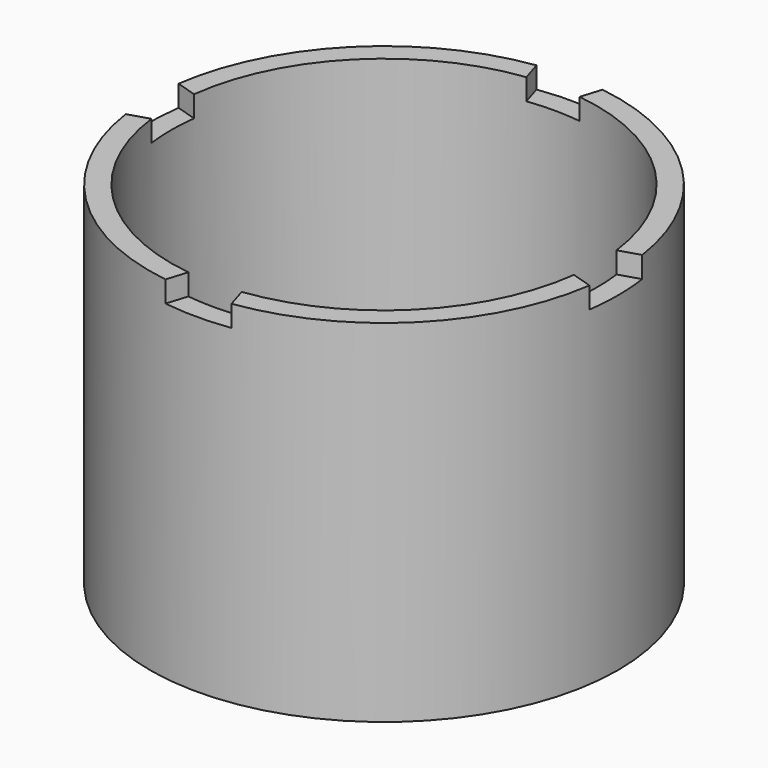
from build123d import *

# Parameters (mm, degrees)
F0_R     = 22
F0_R_2   = 20
F1_DEPTH = 33
F2_R     = 22
F2_R_2   = 2.5
F3_DEPTH = 2
F5_DEPTH = 2
F6_R     = 4
F6_R_2   = 2.5
F7_DEPTH = 1.5


with BuildPart() as f1:
    # F0 (on Top) → F1 (new body)
    with BuildSketch(Plane.XY):
        Circle(F0_R)
        Circle(F0_R_2, mode=Mode.SUBTRACT)
    extrude(amount=F1_DEPTH)

    # F2 (on Top) → F3 (join)
    with BuildSketch(Plane.XY):
        Circle(F2_R)
        Circle(F2_R_2, mode=Mode.SUBTRACT)
    extrude(amount=F3_DEPTH)

    # F4 (on face) → F5 (cut)
    with BuildSketch(Plane.XY.offset(33)):
        with BuildLine():
            Line((-3.106676, 21.803428), (-2.5, 19.843135))
            ThreePointArc((-2.5, 19.843135), (-1.252458, 19.960745), (0, 20))
            ThreePointArc((0, 20), (1.252458, 19.960745), (2.5, 19.843135))
            Line((2.5, 19.843135), (3.106676, 21.803428))
            ThreePointArc((3.106676, 21.803428), (0, 22.023645), (-3.106676, 21.803428))
        make_face()
        with BuildLine():
            Line((-21.803428, -3.106676), (-19.843135, -2.5))
            ThreePointArc((-19.843135, -2.5), (-19.960745, -1.252458), (-20, 0))
            ThreePointArc((-20, 0), (-19.960745, 1.252458), (-19.843135, 2.5))
            Line((-19.843135, 2.5), (-21.803428, 3.106676))
            ThreePointArc((-21.803428, 3.106676), (-22.023645, 0), (-21.803428, -3.106676))
        make_face()
        with BuildLine():
            Line((3.106676, -21.803428), (2.5, -19.843135))
            ThreePointArc((2.5, -19.843135), (1.252458, -19.960745), (0, -20))
            ThreePointArc((0, -20), (-1.252458, -19.960745), (-2.5, -19.843135))
            Line((-2.5, -19.843135), (-3.106676, -21.803428))
            ThreePointArc((-3.106676, -21.803428), (0, -22.023645), (3.106676, -21.803428))
        make_face()
        with BuildLine():
            Line((21.803428, 3.106676), (19.843135, 2.5))
            ThreePointArc((19.843135, 2.5), (19.960745, 1.252458), (20, 0))
            ThreePointArc((20, 0), (19.960745, -1.252458), (19.843135, -2.5))
            Line((19.843135, -2.5), (21.803428, -3.106676))
            ThreePointArc((21.803428, -3.106676), (22.023645, 0), (21.803428, 3.106676))
        make_face()
    extrude(amount=-F5_DEPTH, mode=Mode.SUBTRACT)

    # F6 (on face) → F7 (join)
    with BuildSketch(Plane.XY.offset(2)):
        Circle(F6_R)
        Circle(F6_R_2, mode=Mode.SUBTRACT)
    extrude(amount=F7_DEPTH)


solid = f1.part
